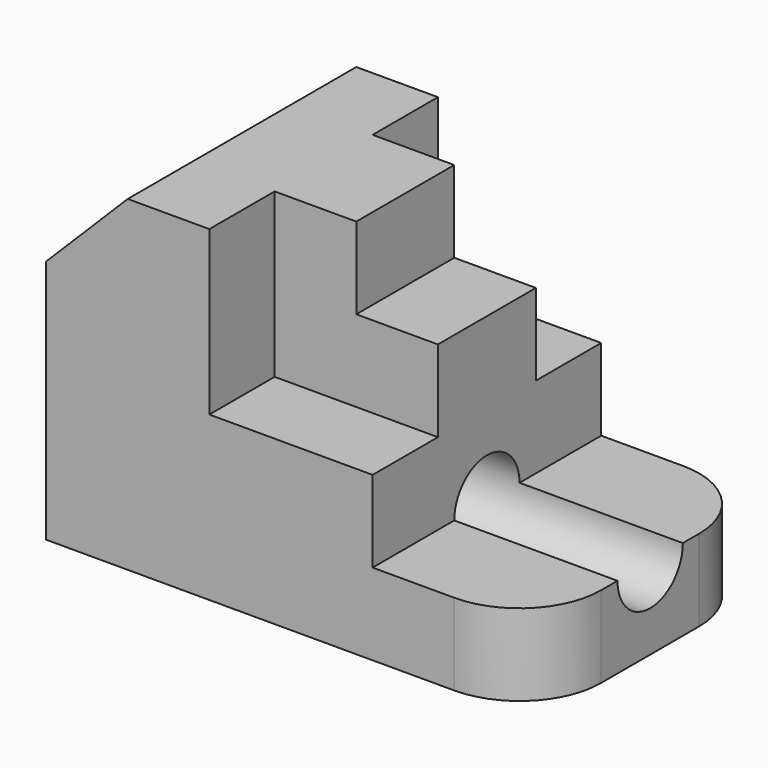
from build123d import *

# Parameters (mm, degrees)
F1_DEPTH = 50.8
F3_DEPTH = 25.4
F4_DEPTH = 38.1
F2_W     = 12.7
F2_H     = 19.05
F5_DEPTH = 12.7
F7_DEPTH = 44.45
F8_R     = 6.35
F9_DEPTH = 76.2


with BuildPart() as f1:
    # F0 (on Top) → F1 (new body)
    with BuildSketch(Plane.XY):
        with BuildLine():
            Line((0, 44.45), (0, 0))
            Line((0, 0), (63.5, 0))
            ThreePointArc((63.5, 0), (72.480256, 3.719744), (76.2, 12.7))
            Line((76.2, 12.7), (76.2, 31.75))
            ThreePointArc((76.2, 31.75), (72.480256, 40.730256), (63.5, 44.45))
            Line((63.5, 44.45), (0, 44.45))
        make_face()
    extrude(amount=F1_DEPTH)

    # F2 (on face) → F3 (cut)
    with BuildSketch(Plane.XY.offset(50.8)):
        Polygon((50.8, 44.45), (25.4, 44.45), (25.4, 31.75), (38.1, 31.75), (50.8, 31.75), align=None)
        Polygon((50.8, 0), (50.8, 12.7), (38.1, 12.7), (25.4, 12.7), (25.4, 0), align=None)
    extrude(amount=-F3_DEPTH, mode=Mode.SUBTRACT)

    # F2 (on face) → F4 (cut)
    with BuildSketch(Plane.XY.offset(50.8)):
        with BuildLine():
            Line((63.5, 44.45), (50.8, 44.45))
            Line((50.8, 44.45), (50.8, 31.75))
            Line((50.8, 31.75), (50.8, 12.7))
            Line((50.8, 12.7), (50.8, 0))
            Line((50.8, 0), (63.5, 0))
            ThreePointArc((63.5, 0), (72.480256, 3.719744), (76.2, 12.7))
            Line((76.2, 12.7), (76.2, 31.75))
            ThreePointArc((76.2, 31.75), (72.480256, 40.730256), (63.5, 44.45))
        make_face()
    extrude(amount=-F4_DEPTH, mode=Mode.SUBTRACT)

    # F2 (on face) → F5 (cut)
    with BuildSketch(Plane.XY.offset(50.8)):
        with Locations((44.45, 22.225)):
            Rectangle(F2_W, F2_H)
    extrude(amount=-F5_DEPTH, mode=Mode.SUBTRACT)

    # F6 (on face) → F7 (cut, through all)
    with BuildSketch(Plane.XZ):
        Polygon((0, 50.8), (0, 38.1), (12.7, 50.8), align=None)
    extrude(amount=-F7_DEPTH, mode=Mode.SUBTRACT)

    # F8 (on face) → F9 (cut, through all)
    with BuildSketch(Plane(origin=(0, 0, 0), x_dir=(0, -1, 0), z_dir=(-1, 0, 0))):
        with Locations((-22.225, 12.7)):
            Circle(F8_R)
    extrude(amount=-F9_DEPTH, mode=Mode.SUBTRACT)


solid = f1.part
